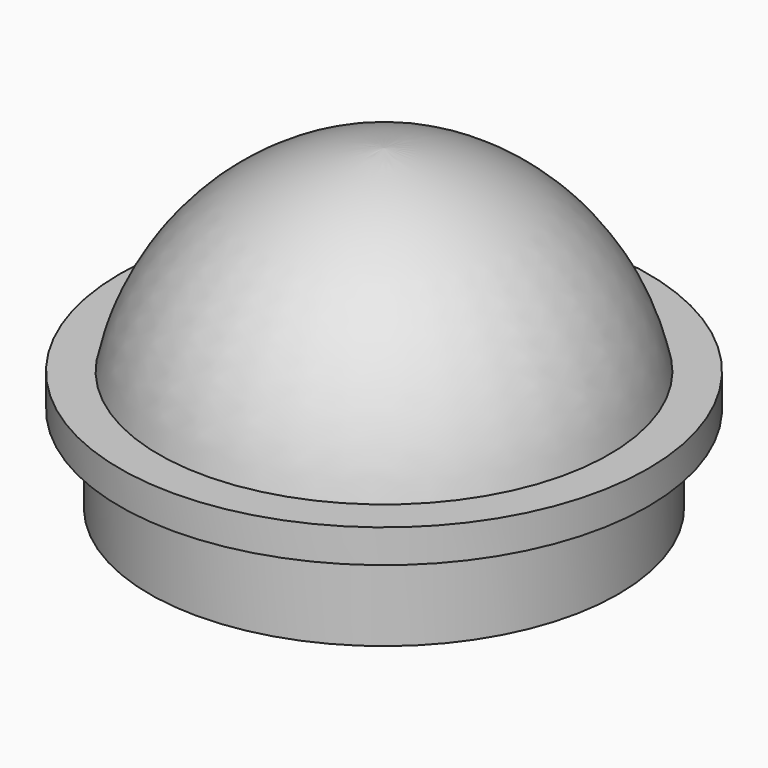
from build123d import *


with BuildPart() as f1:
    # F0 (on Front) → F1 (revolve)
    with BuildSketch(Plane.XZ):
        Polygon((0, 6.499463), (0, 0), (12.7, 0), (12.7, 4.697095), (14.302104, 4.697095), (14.302104, 6.499463), align=None)
    revolve(axis=Axis((0, 0, 3.249731), (0, 0, -1)))

    # F3 (on Right) → F4 (revolve)
    with BuildSketch(Plane.YZ):
        with BuildLine():
            Line((0, 5.862008), (12.321888, 5.862008))
            ThreePointArc((12.321888, 5.862008), (8.125672, 13.651057), (0, 17.151196))
            Line((0, 17.151196), (0, 5.862008))
        make_face()
    revolve(axis=Axis((0, 0, 11.506602), (0, 0, 1)))


solid = f1.part
